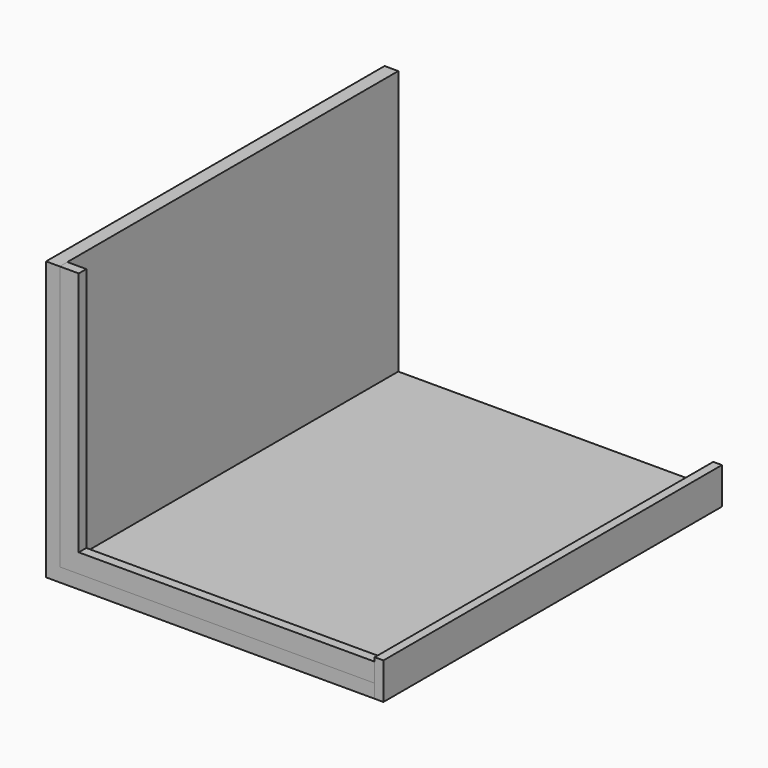
from build123d import *

# Parameters (mm, degrees)
F1_DEPTH = 81.5848
F2_W     = 3.658651373
F2_H     = 47.3456
F2_H_2   = 3.6586527367
F3_DEPTH = 1.8288
F5_W     = 81.5848
F5_H     = 7.0612
F6_DEPTH = 1.6764


with BuildPart() as f1:
    # F0 (on Front) → F1 (new body)
    with BuildSketch(Plane.XZ):
        Polygon((-43.8521401205, 31.8526837044), (-46.4926887475, 31.8526837044), (-46.4926887475, -21.7921162956), (16.880445572, -21.7921162956), (16.880445572, -19.1515690323), (-43.8521401205, -19.1515690323), align=None)
    extrude(amount=F1_DEPTH)


with BuildPart() as f3:
    # F2 (on face) → F3 (new body)
    with BuildSketch(Plane.XZ.offset(81.5848)):
        with Locations((-42.022814434, 8.1798837044)):
            Rectangle(F2_W, F2_H)
        Polygon((17.0799549669, -15.4929162956), (-40.1934887475, -15.4929162956), (-40.1934887475, -19.1515690323), (16.880445572, -19.1515690323), align=None)
        with Locations((-42.022814434, -17.3222426639)):
            Rectangle(F2_W, F2_H_2)
    extrude(amount=-F3_DEPTH)


with BuildPart() as f6:
    # F5 (on face) → F6 (new body)
    with BuildSketch(Plane.YZ.offset(16.880445572)):
        with Locations((-40.7924, -18.2615162956)):
            Rectangle(F5_W, F5_H)
    extrude(amount=F6_DEPTH)


solid = Compound([f1.part, f3.part, f6.part])
